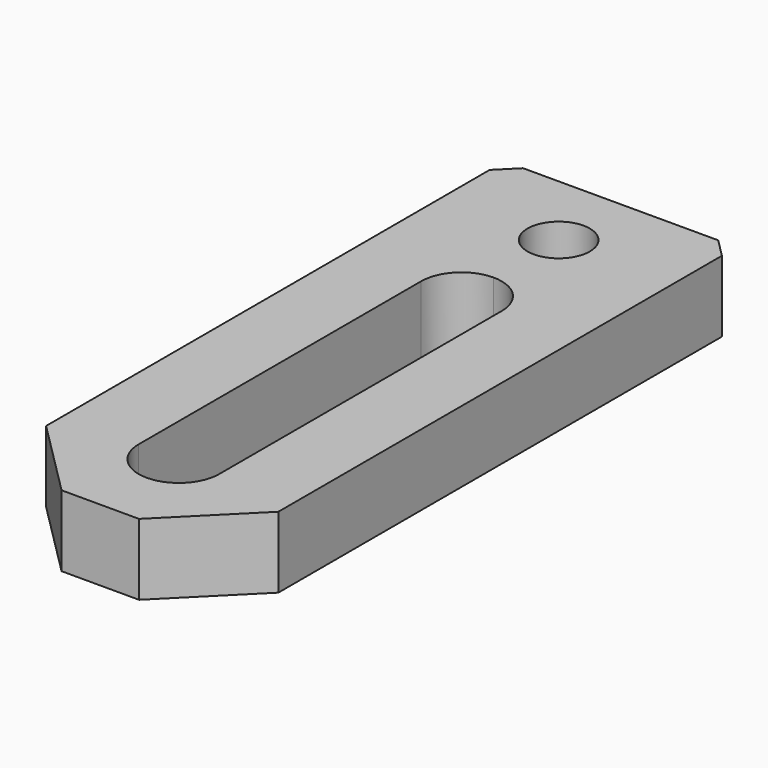
from build123d import *

# Parameters (mm, degrees)
F0_W     = 19.05
F0_H     = 53.34
F0_R     = 2.5527
F1_DEPTH = 5.842
F2_SIZE  = 6.35
F3_SIZE  = 1.524


with BuildPart() as f1:
    # F0 (on Top) → F1 (new body)
    with BuildSketch(Plane.XY):
        with Locations((9.525, -26.67)):
            Rectangle(F0_W, F0_H)
        with BuildLine():
            Line((6.223, -45.2755), (6.223, -16.3195))
            ThreePointArc((6.223, -16.3195), (7.190133, -13.984633), (9.525, -13.0175))
            ThreePointArc((9.525, -13.0175), (11.859867, -13.984633), (12.827, -16.3195))
            Line((12.827, -16.3195), (12.827, -45.2755))
            ThreePointArc((12.827, -45.2755), (11.859867, -47.610367), (9.525, -48.5775))
            ThreePointArc((9.525, -48.5775), (7.190133, -47.610367), (6.223, -45.2755))
        make_face(mode=Mode.SUBTRACT)
        with Locations((9.525, -6.35)):
            Circle(F0_R, mode=Mode.SUBTRACT)
    extrude(amount=F1_DEPTH)

    # F2
    f2_edges = [f1.edges().sort_by_distance(p)[0] for p in [
        (0, -53.34, 2.921),
        (19.05, -53.34, 2.921),
    ]]
    chamfer(f2_edges, length=F2_SIZE)

    # F3
    f3_edges = [f1.edges().sort_by_distance(p)[0] for p in [
        (19.05, 0, 2.921),
        (0, 0, 2.921),
    ]]
    chamfer(f3_edges, length=F3_SIZE)


solid = f1.part
